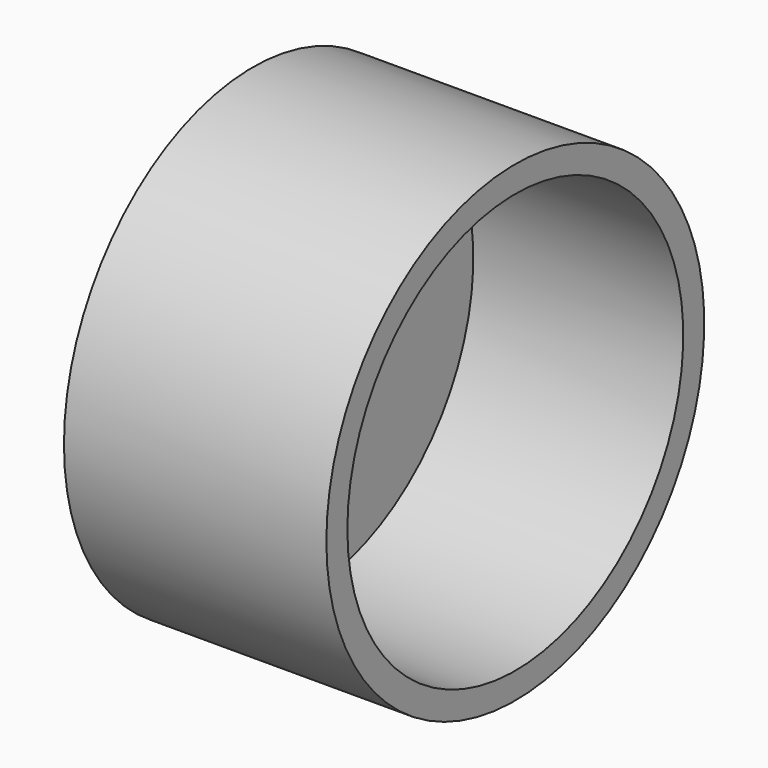
from build123d import *

# Parameters (mm, degrees)
F2_R     = 3
F3_DEPTH = 2


with BuildPart() as f1:
    # F0 (on Top) → F1 (revolve)
    with BuildSketch(Plane.XY):
        Polygon((0, -8), (0, 0), (-2, 0), (-2, -9), (8, -9), (8, -8), align=None)
    revolve(axis=Axis((-1, 0, 0), (1, 0, 0)))

    # F2 (on face) → F3 (cut, through all)
    with BuildSketch(Plane(origin=(-2, 0, 0), x_dir=(0, -1, 0), z_dir=(-1, 0, 0))):
        Circle(F2_R)
    extrude(amount=-F3_DEPTH, mode=Mode.SUBTRACT)


solid = f1.part
